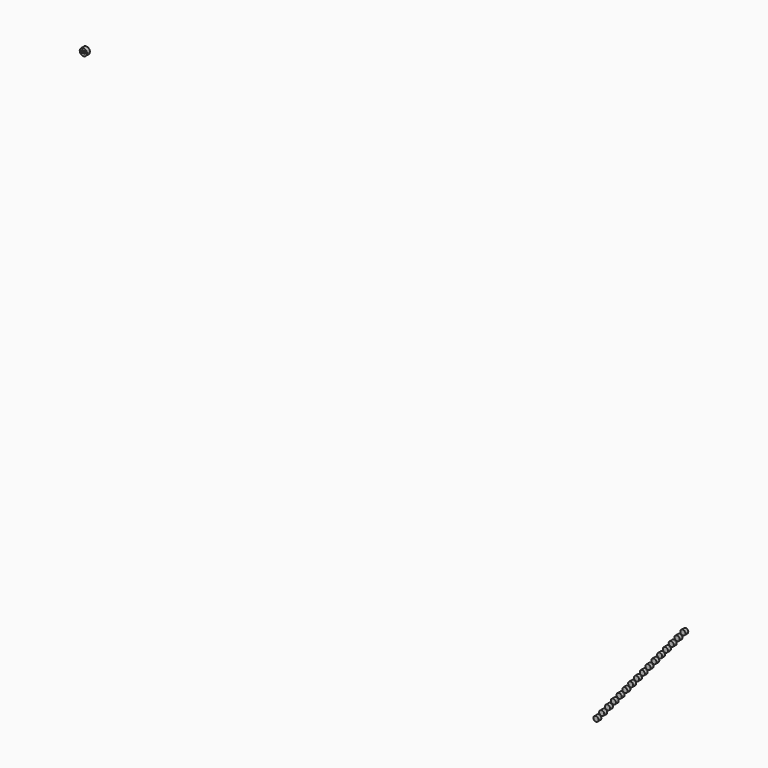
from build123d import *

# Parameters (mm, degrees)
F1_DEPTH = 0.508


with BuildPart() as f1:
    # F0 (on Front) → F1 (new body)
    with BuildSketch(Plane.XZ):
        with BuildLine():
            Line((-69.080764, 60.927495), (-69.080764, 61.257695))
            ThreePointArc((-69.080764, 61.257695), (-69.588764, 60.749695), (-69.080764, 60.241695))
            Line((-69.080764, 60.241695), (-69.080764, 60.571895))
            Line((-69.080764, 60.571895), (-69.131564, 60.571895))
            Line((-69.131564, 60.571895), (-69.131564, 60.838595))
            ThreePointArc((-69.131564, 60.838595), (-69.153966, 60.857291), (-69.182364, 60.863995))
            ThreePointArc((-69.182364, 60.863995), (-69.210762, 60.857291), (-69.233164, 60.838595))
            Line((-69.233164, 60.838595), (-69.233164, 60.571895))
            Line((-69.233164, 60.571895), (-69.334764, 60.571895))
            Line((-69.334764, 60.571895), (-69.334764, 60.749695))
            Line((-69.334764, 60.749695), (-69.334764, 60.952895))
            Line((-69.334764, 60.952895), (-69.233164, 60.952895))
            Line((-69.233164, 60.952895), (-69.233164, 60.927495))
            ThreePointArc((-69.233164, 60.927495), (-69.197125, 60.946378), (-69.156964, 60.952895))
            ThreePointArc((-69.156964, 60.952895), (-69.116803, 60.946378), (-69.080764, 60.927495))
        make_face()
        with BuildLine():
            ThreePointArc((-69.080764, 60.241695), (-68.721554, 60.390485), (-68.572764, 60.749695))
            ThreePointArc((-68.572764, 60.749695), (-68.721554, 61.108905), (-69.080764, 61.257695))
            Line((-69.080764, 61.257695), (-69.080764, 60.927495))
            ThreePointArc((-69.080764, 60.927495), (-69.044725, 60.946378), (-69.004564, 60.952895))
            ThreePointArc((-69.004564, 60.952895), (-68.964403, 60.946378), (-68.928364, 60.927495))
            Line((-68.928364, 60.927495), (-68.852164, 60.927495))
            ThreePointArc((-68.852164, 60.927495), (-68.843387, 60.924071), (-68.835872, 60.918387))
            ThreePointArc((-68.835872, 60.918387), (-68.830188, 60.910873), (-68.826764, 60.902095))
            Line((-68.826764, 60.902095), (-68.826764, 60.749695))
            Line((-68.826764, 60.749695), (-68.826764, 60.571895))
            Line((-68.826764, 60.571895), (-68.928364, 60.571895))
            Line((-68.928364, 60.571895), (-68.928364, 60.838595))
            ThreePointArc((-68.928364, 60.838595), (-68.950766, 60.857291), (-68.979164, 60.863995))
            ThreePointArc((-68.979164, 60.863995), (-69.007562, 60.857291), (-69.029964, 60.838595))
            Line((-69.029964, 60.838595), (-69.029964, 60.571895))
            Line((-69.029964, 60.571895), (-69.080764, 60.571895))
            Line((-69.080764, 60.571895), (-69.080764, 60.241695))
        make_face()
        with BuildLine():
            Line((10.982853, 11.517215), (10.755204, 11.244035))
            ThreePointArc((10.755204, 11.244035), (11.133683, 11.195187), (11.338453, 11.517215))
            ThreePointArc((11.338453, 11.517215), (11.304881, 11.668044), (11.210503, 11.790394))
            Line((11.210503, 11.790394), (10.982853, 11.517215))
        make_face()
        with BuildLine():
            Line((10.169819, 10.541574), (9.942169, 10.268394))
            ThreePointArc((9.942169, 10.268394), (10.320649, 10.219546), (10.525419, 10.541574))
            ThreePointArc((10.525419, 10.541574), (10.491847, 10.692403), (10.397469, 10.814753))
            Line((10.397469, 10.814753), (10.169819, 10.541574))
        make_face()
        with BuildLine():
            Line((7.457537, 7.8423), (7.730716, 7.614651))
            Line((7.730716, 7.614651), (7.958366, 7.88783))
            ThreePointArc((7.958366, 7.88783), (7.698522, 7.96879), (7.457537, 7.8423))
        make_face()
        with BuildLine():
            ThreePointArc((8.270571, 8.817941), (8.189611, 8.558097), (8.316101, 8.317112))
            Line((8.316101, 8.317112), (8.543751, 8.590292))
            Line((8.543751, 8.590292), (8.270571, 8.817941))
        make_face()
        with BuildLine():
            Line((3.080161, 2.033984), (2.852511, 1.760805))
            Line((2.852511, 1.760805), (2.624862, 1.487625))
            ThreePointArc((2.624862, 1.487625), (3.003341, 1.438777), (3.208111, 1.760805))
            ThreePointArc((3.208111, 1.760805), (3.174539, 1.911634), (3.080161, 2.033984))
        make_face()
        with BuildLine():
            ThreePointArc((7.457537, 7.8423), (7.376577, 7.582456), (7.503067, 7.341471))
            Line((7.503067, 7.341471), (7.730716, 7.614651))
            Line((7.730716, 7.614651), (7.457537, 7.8423))
        make_face()
        with BuildLine():
            ThreePointArc((5.831469, 5.891018), (5.750508, 5.631174), (5.876998, 5.390189))
            Line((5.876998, 5.390189), (6.104648, 5.663369))
            Line((6.104648, 5.663369), (5.831469, 5.891018))
        make_face()
        with BuildLine():
            Line((9.89664, 10.769223), (10.169819, 10.541574))
            Line((10.169819, 10.541574), (10.397469, 10.814753))
            ThreePointArc((10.397469, 10.814753), (10.137624, 10.895713), (9.89664, 10.769223))
        make_face()
        with BuildLine():
            Line((8.270571, 8.817941), (8.543751, 8.590292))
            Line((8.543751, 8.590292), (8.7714, 8.863471))
            ThreePointArc((8.7714, 8.863471), (8.511556, 8.944431), (8.270571, 8.817941))
        make_face()
        with BuildLine():
            ThreePointArc((4.2054, 3.939736), (4.12444, 3.679892), (4.25093, 3.438907))
            Line((4.25093, 3.438907), (4.47858, 3.712087))
            Line((4.47858, 3.712087), (4.2054, 3.939736))
        make_face()
        with BuildLine():
            Line((2.624862, 1.487625), (2.852511, 1.760805))
            Line((2.852511, 1.760805), (2.579332, 1.988454))
            ThreePointArc((2.579332, 1.988454), (2.498372, 1.72861), (2.624862, 1.487625))
        make_face()
        with BuildLine():
            Line((6.644503, 6.866659), (6.917682, 6.63901))
            Line((6.917682, 6.63901), (7.145332, 6.912189))
            ThreePointArc((7.145332, 6.912189), (6.885488, 6.993149), (6.644503, 6.866659))
        make_face()
        with BuildLine():
            ThreePointArc((5.018434, 4.915377), (4.937474, 4.655533), (5.063964, 4.414548))
            Line((5.063964, 4.414548), (5.291614, 4.687728))
            Line((5.291614, 4.687728), (5.018434, 4.915377))
        make_face()
        with BuildLine():
            Line((3.665546, 2.736446), (3.437896, 2.463266))
            ThreePointArc((3.437896, 2.463266), (3.816375, 2.414418), (4.021146, 2.736446))
            ThreePointArc((4.021146, 2.736446), (3.987573, 2.887275), (3.893195, 3.009625))
            Line((3.893195, 3.009625), (3.665546, 2.736446))
        make_face()
        with BuildLine():
            Line((4.2054, 3.939736), (4.47858, 3.712087))
            Line((4.47858, 3.712087), (4.706229, 3.985266))
            ThreePointArc((4.706229, 3.985266), (4.446385, 4.066226), (4.2054, 3.939736))
        make_face()
        with BuildLine():
            ThreePointArc((6.644503, 6.866659), (6.563543, 6.606815), (6.690033, 6.36583))
            Line((6.690033, 6.36583), (6.917682, 6.63901))
            Line((6.917682, 6.63901), (6.644503, 6.866659))
        make_face()
        with BuildLine():
            Line((4.47858, 3.712087), (4.25093, 3.438907))
            ThreePointArc((4.25093, 3.438907), (4.629409, 3.390059), (4.83418, 3.712087))
            ThreePointArc((4.83418, 3.712087), (4.800607, 3.862916), (4.706229, 3.985266))
            Line((4.706229, 3.985266), (4.47858, 3.712087))
        make_face()
        with BuildLine():
            Line((8.543751, 8.590292), (8.316101, 8.317112))
            ThreePointArc((8.316101, 8.317112), (8.69458, 8.268264), (8.899351, 8.590292))
            ThreePointArc((8.899351, 8.590292), (8.865778, 8.741121), (8.7714, 8.863471))
            Line((8.7714, 8.863471), (8.543751, 8.590292))
        make_face()
        with BuildLine():
            Line((10.709674, 11.744864), (10.982853, 11.517215))
            Line((10.982853, 11.517215), (11.210503, 11.790394))
            ThreePointArc((11.210503, 11.790394), (10.950659, 11.871354), (10.709674, 11.744864))
        make_face()
        with BuildLine():
            Line((5.831469, 5.891018), (6.104648, 5.663369))
            Line((6.104648, 5.663369), (6.332298, 5.936548))
            ThreePointArc((6.332298, 5.936548), (6.072454, 6.017508), (5.831469, 5.891018))
        make_face()
        with BuildLine():
            ThreePointArc((15.275674, 16.668599), (14.774845, 16.623069), (14.820375, 16.12224))
            Line((14.820375, 16.12224), (15.275674, 16.668599))
        make_face()
        with BuildLine():
            Line((15.275674, 16.668599), (14.820375, 16.12224))
            ThreePointArc((14.820375, 16.12224), (15.198854, 16.073392), (15.403624, 16.39542))
            ThreePointArc((15.403624, 16.39542), (15.370052, 16.54625), (15.275674, 16.668599))
        make_face()
        with BuildLine():
            ThreePointArc((12.023537, 12.766035), (11.522708, 12.720505), (11.568238, 12.219676))
            Line((11.568238, 12.219676), (12.023537, 12.766035))
        make_face()
        with BuildLine():
            Line((12.023537, 12.766035), (11.568238, 12.219676))
            ThreePointArc((11.568238, 12.219676), (11.946717, 12.170828), (12.151487, 12.492856))
            ThreePointArc((12.151487, 12.492856), (12.117915, 12.643685), (12.023537, 12.766035))
        make_face()
        with BuildLine():
            Line((14.23499, 15.419779), (14.00734, 15.146599))
            ThreePointArc((14.00734, 15.146599), (14.38582, 15.097751), (14.59059, 15.419779))
            ThreePointArc((14.59059, 15.419779), (14.557018, 15.570609), (14.46264, 15.692958))
            Line((14.46264, 15.692958), (14.23499, 15.419779))
        make_face()
        with BuildLine():
            ThreePointArc((13.96181, 15.647428), (13.88085, 15.387584), (14.00734, 15.146599))
            Line((14.00734, 15.146599), (14.23499, 15.419779))
            Line((14.23499, 15.419779), (13.96181, 15.647428))
        make_face()
        with BuildLine():
            Line((13.421956, 14.444138), (13.194306, 14.170958))
            ThreePointArc((13.194306, 14.170958), (13.572785, 14.12211), (13.777556, 14.444138))
            ThreePointArc((13.777556, 14.444138), (13.743983, 14.594967), (13.649605, 14.717317))
            Line((13.649605, 14.717317), (13.421956, 14.444138))
        make_face()
        with BuildLine():
            Line((13.148776, 14.671787), (13.421956, 14.444138))
            Line((13.421956, 14.444138), (13.649605, 14.717317))
            ThreePointArc((13.649605, 14.717317), (13.389761, 14.798277), (13.148776, 14.671787))
        make_face()
        with BuildLine():
            Line((12.608922, 13.468497), (12.381272, 13.195317))
            ThreePointArc((12.381272, 13.195317), (12.759751, 13.146469), (12.964522, 13.468497))
            ThreePointArc((12.964522, 13.468497), (12.930949, 13.619326), (12.836571, 13.741676))
            Line((12.836571, 13.741676), (12.608922, 13.468497))
        make_face()
        with BuildLine():
            ThreePointArc((13.148776, 14.671787), (13.067816, 14.411943), (13.194306, 14.170958))
            Line((13.194306, 14.170958), (13.421956, 14.444138))
            Line((13.421956, 14.444138), (13.148776, 14.671787))
        make_face()
        with BuildLine():
            Line((6.917682, 6.63901), (6.690033, 6.36583))
            ThreePointArc((6.690033, 6.36583), (7.068512, 6.316982), (7.273282, 6.63901))
            ThreePointArc((7.273282, 6.63901), (7.23971, 6.789839), (7.145332, 6.912189))
            Line((7.145332, 6.912189), (6.917682, 6.63901))
        make_face()
        with BuildLine():
            Line((2.579332, 1.988454), (2.852511, 1.760805))
            Line((2.852511, 1.760805), (3.080161, 2.033984))
            ThreePointArc((3.080161, 2.033984), (2.820317, 2.114944), (2.579332, 1.988454))
        make_face()
        with BuildLine():
            Line((12.335742, 13.696146), (12.608922, 13.468497))
            Line((12.608922, 13.468497), (12.836571, 13.741676))
            ThreePointArc((12.836571, 13.741676), (12.576727, 13.822636), (12.335742, 13.696146))
        make_face()
        with BuildLine():
            ThreePointArc((9.89664, 10.769223), (9.815679, 10.509379), (9.942169, 10.268394))
            Line((9.942169, 10.268394), (10.169819, 10.541574))
            Line((10.169819, 10.541574), (9.89664, 10.769223))
        make_face()
        with BuildLine():
            Line((5.291614, 4.687728), (5.063964, 4.414548))
            ThreePointArc((5.063964, 4.414548), (5.442444, 4.3657), (5.647214, 4.687728))
            ThreePointArc((5.647214, 4.687728), (5.613641, 4.838557), (5.519263, 4.960907))
            Line((5.519263, 4.960907), (5.291614, 4.687728))
        make_face()
        with BuildLine():
            Line((6.104648, 5.663369), (5.876998, 5.390189))
            ThreePointArc((5.876998, 5.390189), (6.255478, 5.341341), (6.460248, 5.663369))
            ThreePointArc((6.460248, 5.663369), (6.426676, 5.814198), (6.332298, 5.936548))
            Line((6.332298, 5.936548), (6.104648, 5.663369))
        make_face()
        with BuildLine():
            Line((3.392366, 2.964095), (3.665546, 2.736446))
            Line((3.665546, 2.736446), (3.893195, 3.009625))
            ThreePointArc((3.893195, 3.009625), (3.633351, 3.090585), (3.392366, 2.964095))
        make_face()
        with BuildLine():
            Line((7.730716, 7.614651), (7.503067, 7.341471))
            ThreePointArc((7.503067, 7.341471), (7.881546, 7.292623), (8.086316, 7.614651))
            ThreePointArc((8.086316, 7.614651), (8.052744, 7.76548), (7.958366, 7.88783))
            Line((7.958366, 7.88783), (7.730716, 7.614651))
        make_face()
        with BuildLine():
            ThreePointArc((3.392366, 2.964095), (3.311406, 2.704251), (3.437896, 2.463266))
            Line((3.437896, 2.463266), (3.665546, 2.736446))
            Line((3.665546, 2.736446), (3.392366, 2.964095))
        make_face()
        with BuildLine():
            Line((9.356785, 9.565933), (9.129135, 9.292753))
            ThreePointArc((9.129135, 9.292753), (9.507614, 9.243905), (9.712385, 9.565933))
            ThreePointArc((9.712385, 9.565933), (9.678812, 9.716762), (9.584434, 9.839112))
            Line((9.584434, 9.839112), (9.356785, 9.565933))
        make_face()
        with BuildLine():
            ThreePointArc((9.083605, 9.793582), (9.002645, 9.533738), (9.129135, 9.292753))
            Line((9.129135, 9.292753), (9.356785, 9.565933))
            Line((9.356785, 9.565933), (9.083605, 9.793582))
        make_face()
        with BuildLine():
            ThreePointArc((10.709674, 11.744864), (10.628714, 11.48502), (10.755204, 11.244035))
            Line((10.755204, 11.244035), (10.982853, 11.517215))
            Line((10.982853, 11.517215), (10.709674, 11.744864))
        make_face()
        with BuildLine():
            Line((13.96181, 15.647428), (14.23499, 15.419779))
            Line((14.23499, 15.419779), (14.46264, 15.692958))
            ThreePointArc((14.46264, 15.692958), (14.202795, 15.773918), (13.96181, 15.647428))
        make_face()
        with BuildLine():
            ThreePointArc((12.335742, 13.696146), (12.254782, 13.436302), (12.381272, 13.195317))
            Line((12.381272, 13.195317), (12.608922, 13.468497))
            Line((12.608922, 13.468497), (12.335742, 13.696146))
        make_face()
        with BuildLine():
            Line((9.083605, 9.793582), (9.356785, 9.565933))
            Line((9.356785, 9.565933), (9.584434, 9.839112))
            ThreePointArc((9.584434, 9.839112), (9.32459, 9.920072), (9.083605, 9.793582))
        make_face()
        with BuildLine():
            Line((5.018434, 4.915377), (5.291614, 4.687728))
            Line((5.291614, 4.687728), (5.519263, 4.960907))
            ThreePointArc((5.519263, 4.960907), (5.259419, 5.041867), (5.018434, 4.915377))
        make_face()
    extrude(amount=F1_DEPTH)


solid = f1.part
